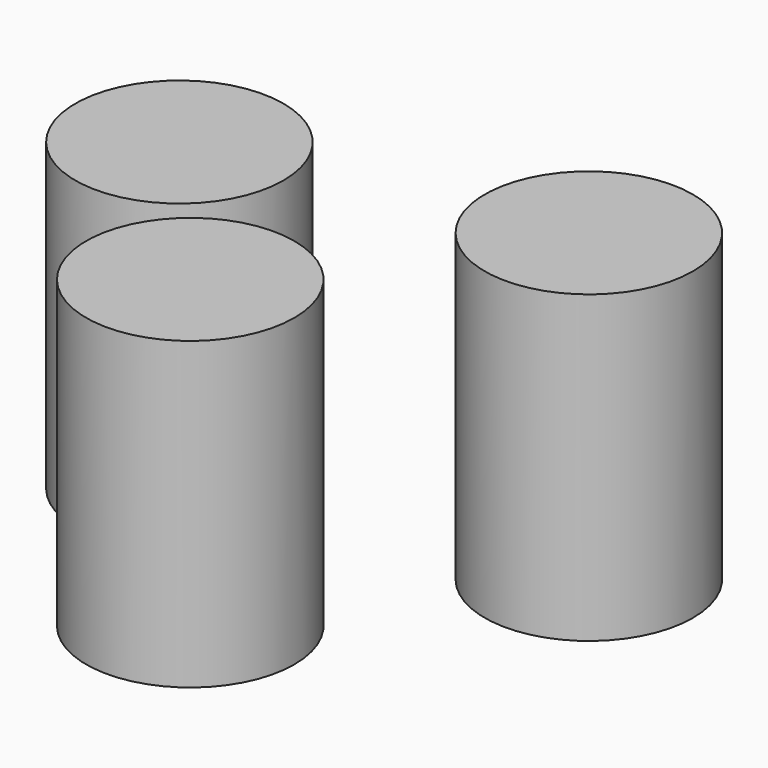
from build123d import *

# Parameters (mm, degrees)
F0_R     = 7.366
F1_DEPTH = 21.59


with BuildPart() as f1:
    # F0 (on Top) → F1 (new body)
    with BuildSketch(Plane.XY):
        with Locations((-10.739181, 12.46372)):
            Circle(F0_R)
        Circle(F0_R)
        with Locations((13.71793, 18.107668)):
            Circle(F0_R)
    extrude(amount=F1_DEPTH)


solid = f1.part
